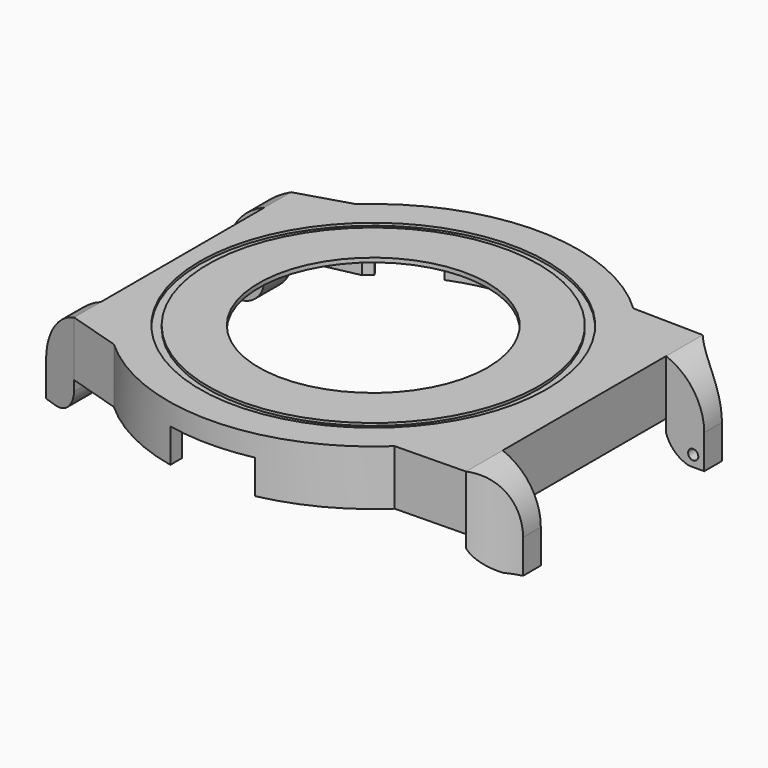
from build123d import *

# Parameters (mm, degrees)
PAD_DEPTH            = 6.5
POCKET_DEPTH         = 6
SKETCH002_R          = 13.5
POCKET001_DEPTH      = 1
SKETCH003_W          = 5.4
SKETCH003_H          = 6.5
PAD001_DEPTH         = 4.5
POCKET002_DEPTH      = 10
SKETCH010_W          = 3.95
SKETCH010_H          = 6.5
PAD002_DEPTH         = 4.5
POCKET005_DEPTH      = 10
SKETCH014_R          = 20.45
SKETCH014_R_2        = 19.5
POCKET008_DEPTH      = 0.3
SKETCH015_R          = 2.2
SKETCH015_R_2        = 0.975
PAD003_DEPTH         = 2
POCKET009_DEPTH      = 4
POCKET010_DEPTH      = 4
PAD004_DEPTH         = 4
SKETCH019_R          = 0.6
POCKET011_DEPTH      = 2
SKETCH020_R          = 0.6
POCKET012_DEPTH      = 2
POCKET013_DEPTH      = 12.151
POCKET013_DEPTH_BACK = 36.251


with BuildPart() as part:
    # Sketch → Pad (new body)
    with BuildSketch(Plane.XY):
        with BuildLine():
            Line((-22.5019915649, 16), (-22.5019915649, -16))
            Line((-22.5019915649, -16), (-16.2858834577, -17.9000000001))
            ThreePointArc((-16.2858834577, -17.9000000001), (0.2206895737, -24.1989937004), (16.6096357576, -17.5999999999))
            Line((16.6096357576, -17.5999999999), (24.9082802252, -17.45))
            Line((24.9082802252, 17.45), (24.9082802252, -17.45))
            Line((16.6096357576, 17.6), (24.9082802252, 17.45))
            ThreePointArc((16.6096357576, 17.6), (0.2206895736, 24.1989937004), (-16.2858834578, 17.9))
            Line((-22.5019915649, 16), (-16.2858834578, 17.9))
        make_face()
    extrude(amount=PAD_DEPTH)

    # Sketch001 → Pocket (cut)
    with BuildSketch(Plane.XY):
        with BuildLine():
            Line((-14.8539557021, 16.9), (-21.2122180433, 15.55))
            Line((-21.2122180433, 15.55), (-21.2122180433, -15.55))
            Line((-21.2122180433, -15.55), (-14.8539557021, -16.9))
            ThreePointArc((-14.8539557021, -16.9), (-0.0760301383, -22.4998715423), (14.739402973, -17))
            Line((14.739402973, -17), (23.6191552218, -16.4))
            Line((23.6191552218, 16.4), (23.6191552218, -16.4))
            Line((14.739402973, 17), (23.6191552218, 16.4))
            ThreePointArc((14.739402973, 17), (-0.0760301383, 22.4998715423), (-14.8539557021, 16.9))
        make_face()
    extrude(amount=POCKET_DEPTH, mode=Mode.SUBTRACT)

    # Sketch002 (on Face19 of Pocket) → Pocket001 (cut)
    with BuildSketch(Plane(origin=(0, 0, 6), x_dir=(1, 0, 0), z_dir=(0, 0, -1))):
        Circle(SKETCH002_R)
    extrude(amount=-POCKET001_DEPTH, mode=Mode.SUBTRACT)

    # Sketch003 (on Face7 of Pad) → Pad001 (join)
    with BuildSketch(Plane.YZ.offset(24.9082802252)):
        with Locations((-14.75, 3.25)):
            Rectangle(SKETCH003_W, SKETCH003_H)
        with Locations((14.75, 3.25)):
            Rectangle(SKETCH003_W, SKETCH003_H)
    extrude(amount=PAD001_DEPTH)

    # Sketch006 (on Face22 of Pad001) → Pocket002 (cut)
    with BuildSketch(Plane.XY.offset(6.5)):
        with BuildLine():
            ThreePointArc((24.9082802252, 17.45), (26.9423471239, 15.7065020586), (29.4082802252, 14.6594169811))
            Line((29.4082802252, 17.45), (29.4082802252, 14.6594169811))
            Line((29.4082802252, 17.45), (24.9082802252, 17.45))
        make_face()
        with BuildLine():
            ThreePointArc((29.4082802252, -14.6594169811), (26.9423471239, -15.7065020586), (24.9082802252, -17.45))
            Line((29.4082802252, -17.45), (24.9082802252, -17.45))
            Line((29.4082802252, -14.6594169811), (29.4082802252, -17.45))
        make_face()
    extrude(amount=-POCKET002_DEPTH, mode=Mode.SUBTRACT)

    # Sketch010 (on Face3 of Pad) → Pad002 (join)
    with BuildSketch(Plane(origin=(-22.5019915649, 0, 0), x_dir=(0, -1, 0), z_dir=(-1, 0, 0))):
        with Locations((-14.025, 3.25)):
            Rectangle(SKETCH010_W, SKETCH010_H)
        with Locations((14.025, 3.25)):
            Rectangle(SKETCH010_W, SKETCH010_H)
    extrude(amount=PAD002_DEPTH)

    # Sketch011 (on Face28 of Pad002) → Pocket005 (cut)
    with BuildSketch(Plane.XY.offset(6.5)):
        Polygon((-27.0019915649, 16), (-22.5019915649, 16), (-27.0019915649, 14.5), align=None)
        Polygon((-22.5019915649, -16), (-27.0019915649, -14.5), (-27.0019915649, -16), align=None)
    extrude(amount=-POCKET005_DEPTH, mode=Mode.SUBTRACT)

    # Sketch014 (on Face10 of Pad) → Pocket008 (cut)
    with BuildSketch(Plane.XY.offset(6.5)):
        Circle(SKETCH014_R)
        Circle(SKETCH014_R_2, mode=Mode.SUBTRACT)
    extrude(amount=-POCKET008_DEPTH, mode=Mode.SUBTRACT)

    # Sketch015 (on Face19 of Pocket) → Pad003 (join)
    with BuildSketch(Plane(origin=(0, 0, 6), x_dir=(1, 0, 0), z_dir=(0, 0, -1))):
        with Locations((-18.42, 13.32)):
            Circle(SKETCH015_R)
        with Locations((-18.42, 13.32)):
            Circle(SKETCH015_R_2, mode=Mode.SUBTRACT)
        with Locations((7.27, 18.56)):
            Circle(SKETCH015_R)
        with Locations((7.27, 18.56)):
            Circle(SKETCH015_R_2, mode=Mode.SUBTRACT)
        with Locations((5.37, -19.79)):
            Circle(SKETCH015_R)
        with Locations((5.37, -19.79)):
            Circle(SKETCH015_R_2, mode=Mode.SUBTRACT)
        with Locations((-18.42, -13.32)):
            Circle(SKETCH015_R)
        with Locations((-18.42, -13.32)):
            Circle(SKETCH015_R_2, mode=Mode.SUBTRACT)
    extrude(amount=PAD003_DEPTH)

    # Sketch016 → Pocket009 (cut)
    with BuildSketch(Plane(origin=(0, 0, 0), x_dir=(-1, 0, 0), z_dir=(0, 0, 1))):
        with BuildLine():
            Line((-5, 23.6778377391), (-5, 21.9374109685))
            ThreePointArc((5, 21.9374109685), (0, 22.5), (-5, 21.9374109685))
            Line((5, 23.6778377391), (5, 21.9374109685))
            ThreePointArc((5, 23.6778377391), (0, 24.2), (-5, 23.6778377391))
        make_face()
    extrude(amount=POCKET009_DEPTH, mode=Mode.SUBTRACT)

    # Sketch017 → Pocket010 (cut)
    with BuildSketch(Plane(origin=(0, 0, 0), x_dir=(-1, 0, 0), z_dir=(0, 0, 1))):
        with BuildLine():
            Line((-3.499984119, -22.2261132717), (-3.5, -23.9455632634))
            ThreePointArc((-3.5, -23.9455632634), (0, -24.2000019575), (3.5, -23.9455632634))
            Line((3.5000158811, -22.2261082701), (3.5, -23.9455632634))
            ThreePointArc((-3.499984119, -22.2261132717), (1.60767e-05, -22.5), (3.5000158811, -22.2261082701))
        make_face()
        with BuildLine():
            ThreePointArc((-13.9498796389, -17.6536358312), (-11.25, -19.4855715851), (-8.3135572795, -20.9077680626))
            Line((-8.3135572795, -20.9077680626), (-8.9416927184, -22.487466094))
            ThreePointArc((-15.0038705449, -18.987466094), (-12.1, -20.9578147716), (-8.9416927184, -22.487466094))
            Line((-13.9498796389, -17.6536358312), (-15.0038705449, -18.987466094))
        make_face()
        with BuildLine():
            ThreePointArc((8.3135572795, -20.9077680626), (11.25, -19.4855715851), (13.9498796389, -17.6536358312))
            Line((13.9498796389, -17.6536358312), (15.0038705449, -18.987466094))
            ThreePointArc((8.9416927184, -22.487466094), (12.1, -20.9578147716), (15.0038705449, -18.987466094))
            Line((8.3135572795, -20.9077680626), (8.9416927184, -22.487466094))
        make_face()
    extrude(amount=POCKET010_DEPTH, mode=Mode.SUBTRACT)

    # Sketch018 (on Face8 of Pocket005) → Pad004 (join)
    with BuildSketch(Plane(origin=(0, 0, 0), x_dir=(1, 0, 0), z_dir=(0, 0, -1))):
        Polygon((-27.0019915649, 14.5), (-27.0019915649, 12.05), (-22.5019915649, 12.05), (-22.5019915649, 16), align=None)
        Polygon((-27.0019915649, -12.05), (-22.5019915649, -12.05), (-22.5019915649, -16), (-27.0019915649, -14.5), align=None)
        with BuildLine():
            Line((24.9082802252, 17.45), (24.9082802252, 12.05))
            Line((29.4082802252, 12.05), (24.9082802252, 12.05))
            Line((29.4082802252, 14.6594169811), (29.4082802252, 12.05))
            ThreePointArc((24.9082802252, 17.45), (26.9423471239, 15.7065020586), (29.4082802252, 14.6594169811))
        make_face()
        with BuildLine():
            Line((24.9082802252, -12.05), (24.9082802252, -17.45))
            ThreePointArc((29.4082802252, -14.6594169811), (26.9423471239, -15.7065020586), (24.9082802252, -17.45))
            Line((29.4082802252, -12.05), (29.4082802252, -14.6594169811))
            Line((24.9082802252, -12.05), (29.4082802252, -12.05))
        make_face()
    extrude(amount=PAD004_DEPTH)

    # Sketch019 (on Face64 of Pad004) → Pocket011 (cut)
    with BuildSketch(Plane.XZ.offset(-12.05)):
        with Locations((28.1082802252, -2.7)):
            Circle(SKETCH019_R)
        with Locations((-25.7019915649, -2.7)):
            Circle(SKETCH019_R)
    extrude(amount=-POCKET011_DEPTH, mode=Mode.SUBTRACT)

    # Sketch020 (on Face50 of Pocket011) → Pocket012 (cut)
    with BuildSketch(Plane(origin=(0, -12.05, 0), x_dir=(-1, 0, 0), z_dir=(0, 1, 0))):
        with Locations((-28.1082802252, -2.7)):
            Circle(SKETCH020_R)
        with Locations((25.7019915649, -2.7)):
            Circle(SKETCH020_R)
    extrude(amount=-POCKET012_DEPTH, mode=Mode.SUBTRACT)

    # Sketch021 (on Face48 of Pocket012) → Pocket013 (cut, two sides)
    with BuildSketch(Plane.XZ.offset(-12.05)) as pocket013_sk:
        with BuildLine():
            ThreePointArc((29.4082802252, 0), (28.1735037783, 3.9528470752), (24.9082802252, 6.5))
            Line((24.9082802252, 6.5), (29.4082802252, 6.5))
            Line((29.4082802252, 6.5), (29.4082802252, 0))
        make_face()
        with BuildLine():
            ThreePointArc((24.9082802252, -1.478433716), (25.9291187082, -3.0916708473), (27.6082802252, -4))
            Line((24.9082802252, -4), (27.6082802252, -4))
            Line((24.9082802252, -1.478433716), (24.9082802252, -4))
        make_face()
        with BuildLine():
            ThreePointArc((-22.5019915649, 6.5), (-25.767215118, 3.9528470752), (-27.0019915649, 0))
            Line((-27.0019915649, 6.5), (-27.0019915649, 0))
            Line((-22.5019915649, 6.5), (-27.0019915649, 6.5))
        make_face()
        with BuildLine():
            ThreePointArc((-25.3019915649, -4), (-23.3759624024, -3.1260291625), (-22.5019915649, -1.2))
            Line((-22.5019915649, -1.2), (-22.5019915649, -4))
            Line((-22.5019915649, -4), (-25.3019915649, -4))
        make_face()
    extrude(amount=-POCKET013_DEPTH, mode=Mode.SUBTRACT)
    extrude(pocket013_sk.sketch, amount=POCKET013_DEPTH_BACK, mode=Mode.SUBTRACT)


solid = part.part
